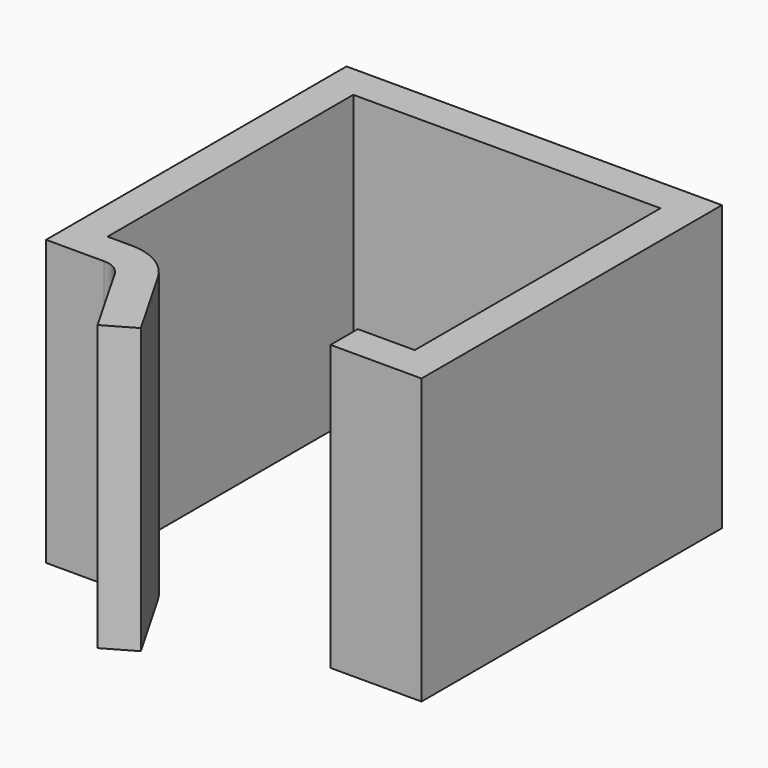
from build123d import *

# Parameters (mm, degrees)
F2_DEPTH = 9.525
F3_R     = 3.81
F4_R     = 1.524


with BuildPart() as f2:
    # F1 (on Top) → F2 (new body, symmetric)
    with BuildSketch(Plane.XY):
        Polygon((10.287, 10.287), (10.287, -10.287), (6.477, -10.287), (6.477, -12.573), (12.573, -12.573), (12.573, 12.573), (-12.573, 12.573), (-12.573, -12.573), (-7.800612, -12.573), (-4.440114, -18.427097), (-2.457546, -17.28902), (-6.477, -10.287), (-10.287, -10.287), (-10.287, 10.287), align=None)
    extrude(amount=F2_DEPTH, both=True)

    # F3
    f3_edges = [f2.edges().sort_by_distance(p)[0] for p in [
        (-6.477, -10.287, 0),
    ]]
    fillet(f3_edges, radius=F3_R)

    # F4
    f4_edges = [f2.edges().sort_by_distance(p)[0] for p in [
        (-7.800612, -12.573, 0),
    ]]
    fillet(f4_edges, radius=F4_R)


solid = f2.part
